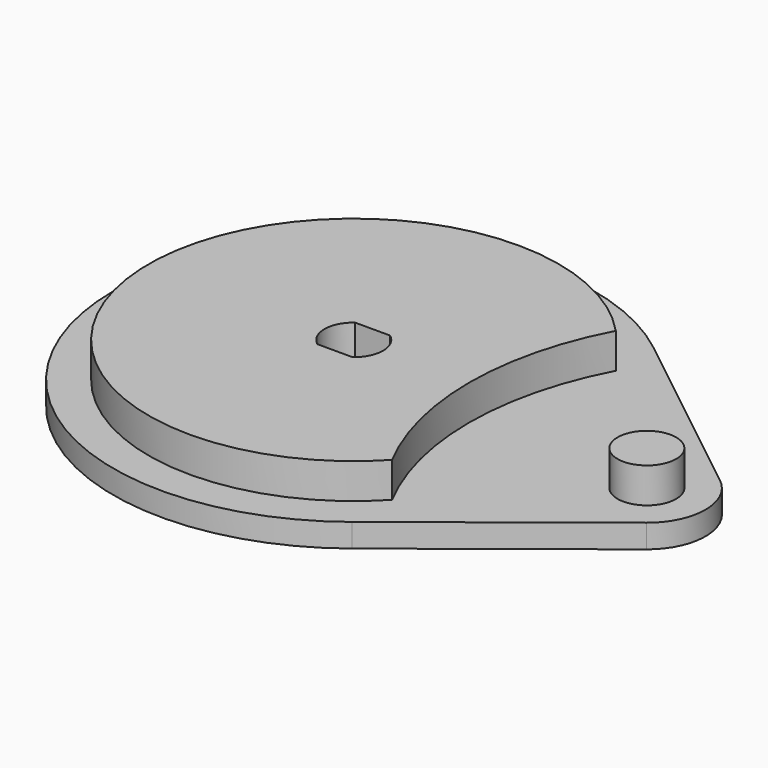
from build123d import *

# Parameters (mm, degrees)
F1_DEPTH = 4
F3_DEPTH = 6
F4_R     = 5
F5_DEPTH = 6
F7_DEPTH = 10.001


with BuildPart() as f1:
    # F0 (on Top) → F1 (new body)
    with BuildSketch(Plane.XY):
        with BuildLine():
            Line((56.2, 7.846018), (25.42, 32.168674))
            ThreePointArc((25.42, 32.168674), (-41, 0), (25.42, -32.168674))
            Line((25.42, -32.168674), (56.2, -7.846018))
            ThreePointArc((56.2, -7.846018), (60, 0), (56.2, 7.846018))
        make_face()
    extrude(amount=F1_DEPTH)

    # F2 (on face) → F3 (join)
    with BuildSketch(Plane.XY.offset(4)):
        with BuildLine():
            ThreePointArc((25.618741, -23.847015), (19.7, 0), (25.618741, 23.847015))
            ThreePointArc((25.618741, 23.847015), (-35, 0), (25.618741, -23.847015))
        make_face()
    extrude(amount=F3_DEPTH)

    # F4 (on face) → F5 (join)
    with BuildSketch(Plane.XY.offset(4)):
        with Locations((50, 0)):
            Circle(F4_R)
    extrude(amount=F5_DEPTH)

    # F6 (on face) → F7 (cut, through all)
    with BuildSketch(Plane.XY.offset(10)):
        with BuildLine():
            Line((3, 4), (-3, 4))
            ThreePointArc((-3, 4), (-5, 0), (-3, -4))
            Line((-3, -4), (3, -4))
            ThreePointArc((3, -4), (5, 0), (3, 4))
        make_face()
    extrude(amount=-F7_DEPTH, mode=Mode.SUBTRACT)


solid = f1.part
